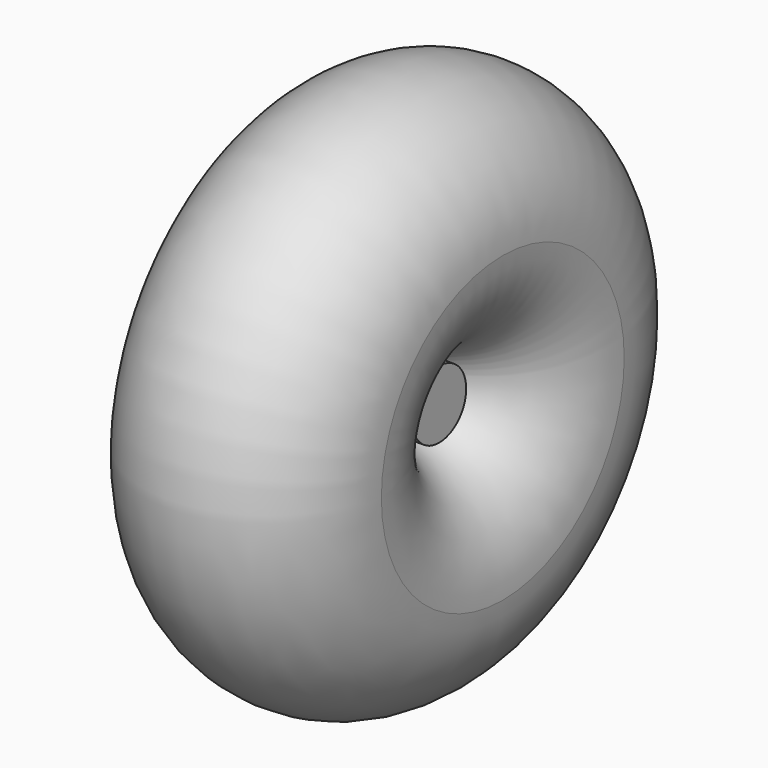
from build123d import *

# Parameters (mm, degrees)
F0_W = 14.94078
F0_H = 11.917554


with BuildPart() as f1:
    # F0 (on Front) → F1 (revolve)
    with BuildSketch(Plane.XZ):
        with Locations((11.93052, 47.559183)):
            Rectangle(F0_W, F0_H)
        with BuildLine():
            ThreePointArc((4.46013, 41.600406), (-31.121481, -27.96319), (41.838817, 0))
            ThreePointArc((41.838817, 0), (31.121481, 27.96319), (4.46013, 41.600406))
        make_face()
    revolve(axis=Axis((11.93052, 0, 53.51796), (1, 0, 0)))


solid = f1.part
